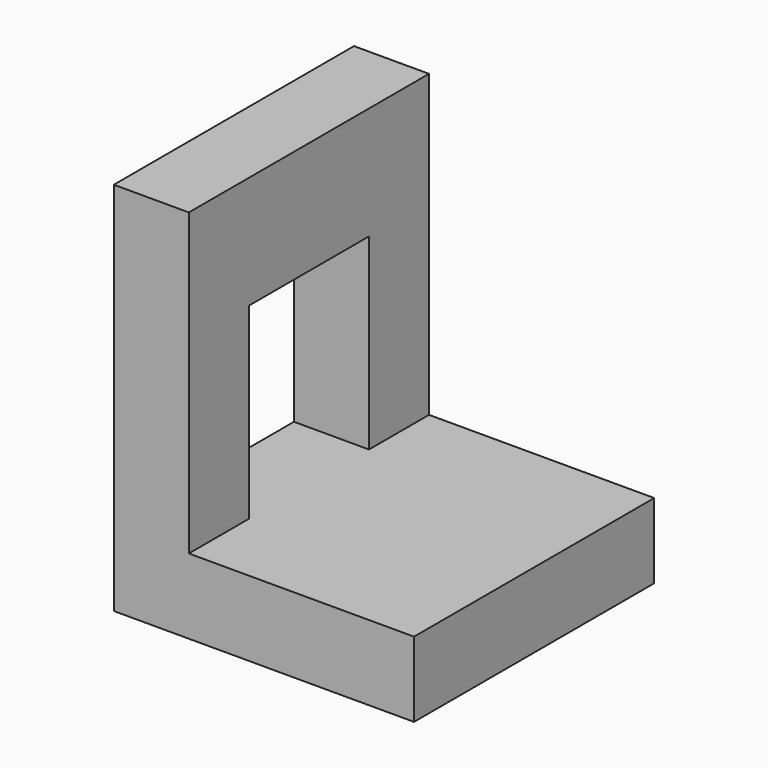
from build123d import *

# Parameters (mm, degrees)
F1_DEPTH = 20
F2_W     = 20
F2_H     = 25
F3_DEPTH = 25.4


with BuildPart() as f1:
    # F0 (on Front) → F1 (new body, symmetric)
    with BuildSketch(Plane.XZ):
        Polygon((0, 0), (0, 10), (-30, 10), (-30, 50), (-40, 50), (-40, 0), align=None)
    extrude(amount=F1_DEPTH, both=True)

    # F2 (on face) → F3 (cut)
    with BuildSketch(Plane.YZ.offset(-30)):
        with Locations((0, 22.5)):
            Rectangle(F2_W, F2_H)
    extrude(amount=-F3_DEPTH, mode=Mode.SUBTRACT)


solid = f1.part
